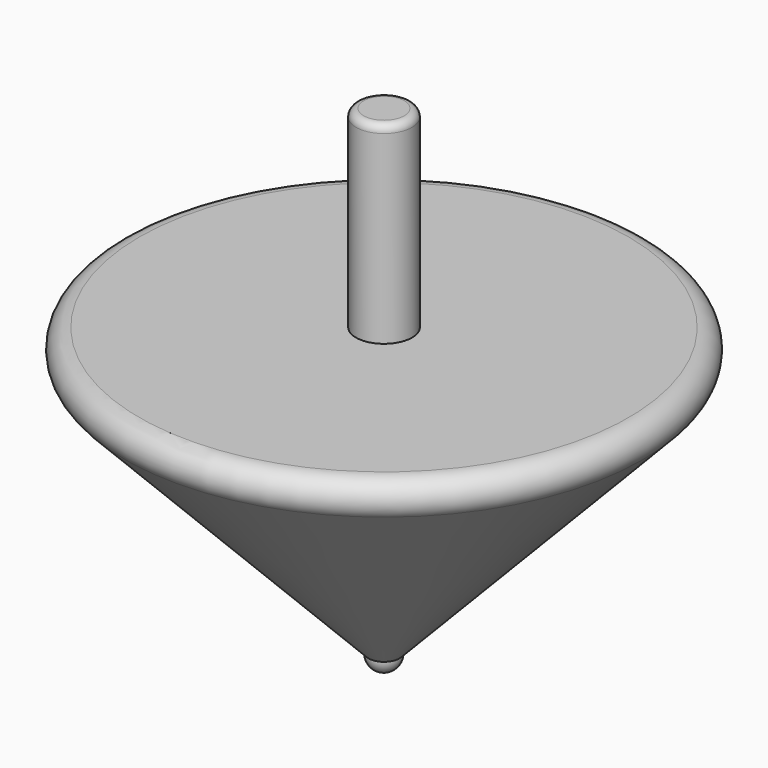
from build123d import *

# Parameters (mm, degrees)
F5_R     = 0.25
F6_R     = 0.3633159423
F8_DEPTH = 3.175
F10_R    = 0.1


with BuildPart() as f1:
    # F0 (on Front) → F1 (revolve)
    with BuildSketch(Plane.XZ):
        Polygon((-3.7765256549, 4.991897698), (-0.2179108415, 1.2749731541), (-0.0178808858, 1.2749731541), (-0.0178808858, 4.991897698), align=None)
    revolve(axis=Axis((-0.0178808858, 0, 3.1334354261), (0, 0, 1)))

    # F5
    f5_edges = [f1.edges().sort_by_distance(p)[0] for p in [
        (3.740764, 0, 4.991898),
    ]]
    fillet(f5_edges, radius=F5_R)


with BuildPart() as f3:
    # F2 (on Top) → F3 (revolve)
    with BuildSketch(Plane.XY):
        with BuildLine():
            Line((-0.0203199997, 0), (-0.0203199997, 0.2))
            ThreePointArc((-0.0203199997, 0.2), (-0.2203199997, 0), (-0.0203199997, -0.2))
            Line((-0.0203199997, -0.2), (-0.0203199997, 0))
        make_face()
    revolve(axis=Axis((-0.0203199997, -0.1, 0), (0, 1, 0)))


with BuildPart() as f3_1:
    # F4: moved
    add(f3.part.moved(Location((0, 0, 1.27))))


with BuildPart() as f3_2:
    # F7: moved
    add(f3_1.part)


with BuildPart() as f1_1:
    # F7: moved
    add(f1.part)


with BuildPart() as f8:
    # F6 (on Top) → F8 (new body)
    with BuildSketch(Plane.XY):
        with Locations((-0.0178808858, 0)):
            Circle(F6_R)
    extrude(amount=F8_DEPTH)


with BuildPart() as f8_1:
    # F9: moved
    add(f8.part.moved(Location((0, 0, 4.318))))

    # F10
    f10_edges = [f8_1.edges().sort_by_distance(p)[0] for p in [
        (-0.381197, 0, 7.493),
    ]]
    fillet(f10_edges, radius=F10_R)


solid = Compound([f3_2.part, f1_1.part, f8_1.part])
